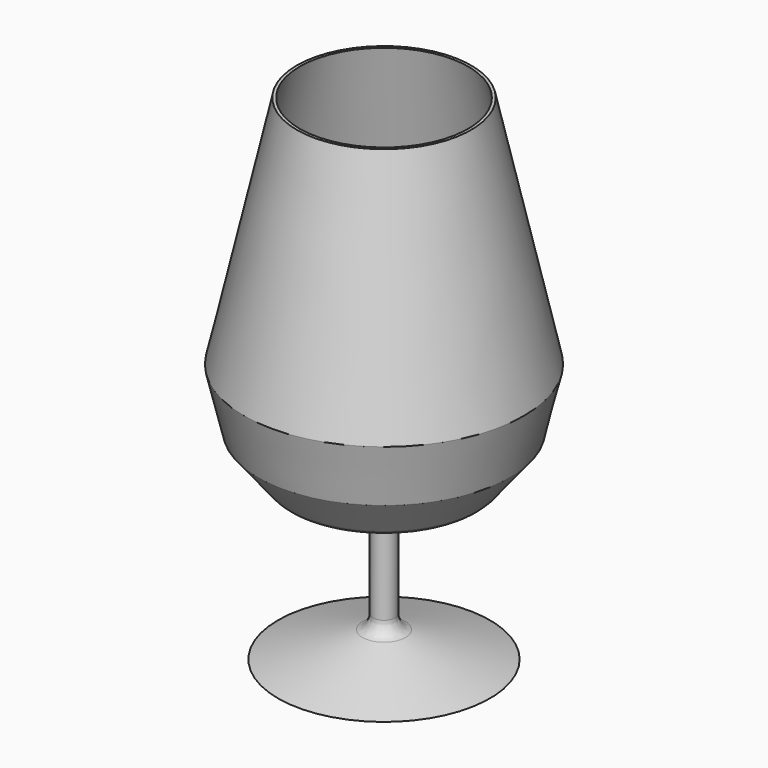
from build123d import *

# Parameters (mm, degrees)
F2_T = -1
F3_R = 5
F4_R = 5


with BuildPart() as f1:
    # F0 (on Front) → F1 (revolve)
    with BuildSketch(Plane.XZ):
        Polygon((0, 100.964410305), (-30, 100.964410305), (-48.0997800827, 20.2851913869), (-43.2369445397, 0), (-31.5237879753, -14.6114934236), (-3.8748302031, -23.7388100573), (0, -25.0179469585), align=None)
        Polygon((0, -69.035589695), (0, -25.0179469585), (-3.8748302031, -23.7388100573), (-3.8748302031, -58.9307323098), (-36.4315584302, -69.035589695), align=None)
    revolve(axis=Axis((0, 0, 15.964410305), (0, 0, -1)))

    # F2
    f2_openings = [f1.faces().sort_by_distance(p)[0] for p in [
        (0, 0, 100.96441),
    ]]
    offset(amount=F2_T, openings=f2_openings, kind=Kind.INTERSECTION)

    # F3
    f3_edges = [f1.edges().sort_by_distance(p)[0] for p in [
        (3.87483, 0, -58.930732),
        (3.87483, 0, -23.73881),
    ]]
    fillet(f3_edges, radius=F3_R)

    # F4
    f4_edges = [f1.edges().sort_by_distance(p)[0] for p in [
        (31.523788, 0, -14.611493),
    ]]
    fillet(f4_edges, radius=F4_R)


solid = f1.part
